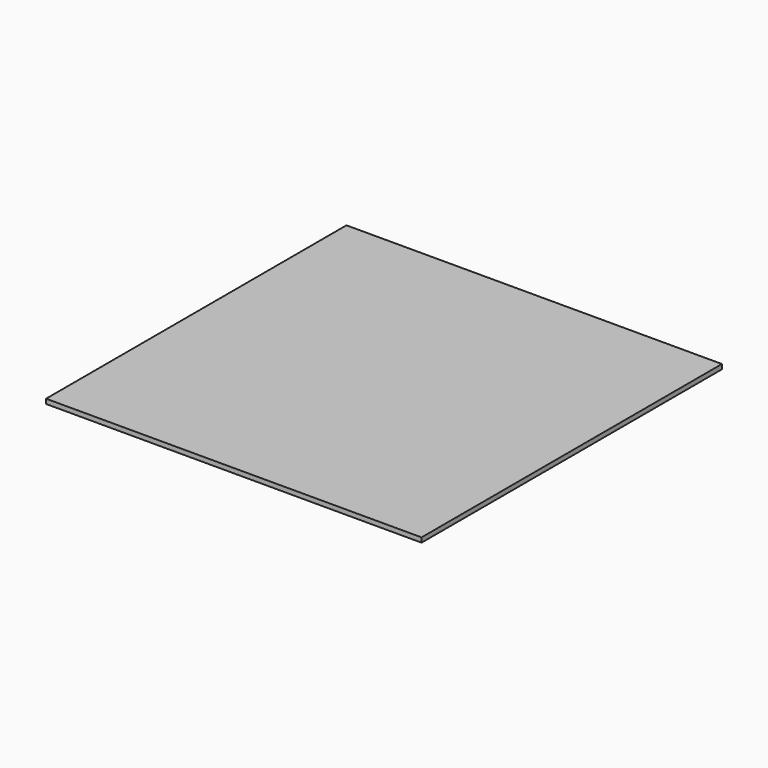
from build123d import *

# Parameters (mm, degrees)
F1_DEPTH = 5
F0_W     = 265
F0_H     = 130
F2_DEPTH = 5
F0_W_2   = 130
F3_DEPTH = 5


with BuildPart() as f1:
    # F0 (on Top) → F1 (new body)
    with BuildSketch(Plane.XY):
        Polygon((195, -70), (-200, -70), (-200, -200), (200, -200), (200, -70), align=None)
    extrude(amount=F1_DEPTH)

    # F0 (on Top) → F2 (join)
    with BuildSketch(Plane.XY):
        Polygon((-200, 60), (-200, 0), (-200, -70), (195, -70), (195, 60), (65, 60), align=None)
        with Locations((-67.5, 125)):
            Rectangle(F0_W, F0_H)
        Polygon((195, -70), (-200, -70), (-200, -200), (200, -200), (200, -70), align=None)
        Polygon((-200, 200), (-200, 190), (65, 190), (195, 190), (195, 60), (195, -70), (200, -70), (200, 200), align=None)
    extrude(amount=F2_DEPTH)

    # F0 (on Top) → F3 (join)
    with BuildSketch(Plane.XY):
        with Locations((130, 125)):
            Rectangle(F0_W_2, F0_H)
    extrude(amount=F3_DEPTH)


solid = f1.part
